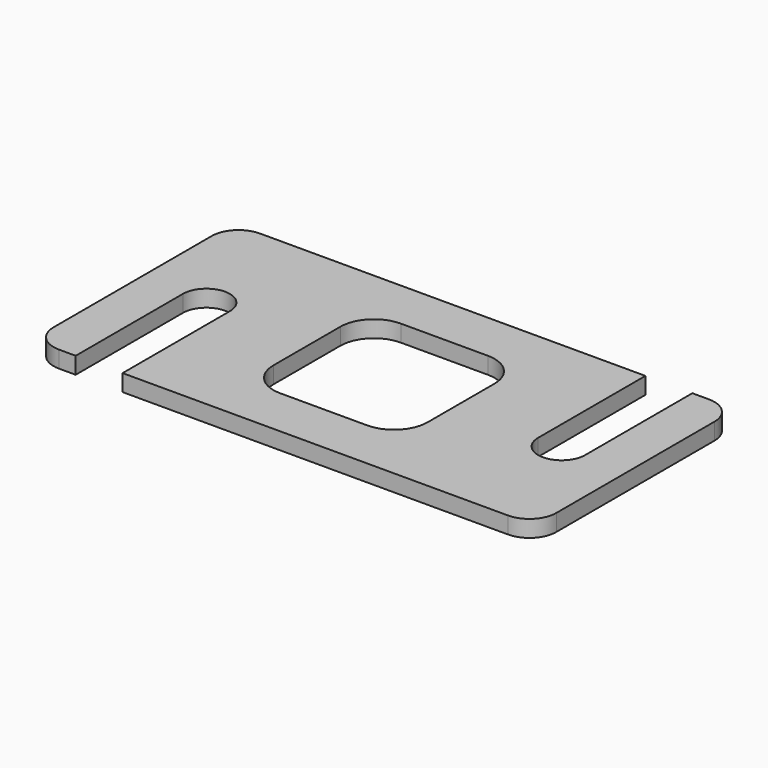
from build123d import *

# Parameters (mm, degrees)
F0_W     = 150
F0_H     = 75
F1_DEPTH = 5
F3_DEPTH = 5.001
F5_DEPTH = 5.001
F6_W     = 46
F6_H     = 45
F7_DEPTH = 5.001
F8_R     = 10
F9_R     = 10
F10_R    = 8
F11_R    = 8
F12_R    = 8
F13_R    = 8


with BuildPart() as f1:
    # F0 (on Top) → F1 (new body)
    with BuildSketch(Plane.XY):
        with Locations((75, 37.5)):
            Rectangle(F0_W, F0_H)
    extrude(amount=F1_DEPTH)

    # F2 (on Top) → F3 (cut, through all)
    with BuildSketch(Plane.XY):
        with BuildLine():
            Line((13, 40), (13, 0))
            Line((13, 0), (27, 0))
            Line((27, 0), (27, 40))
            ThreePointArc((27, 40), (20, 47), (13, 40))
        make_face()
    extrude(amount=F3_DEPTH, mode=Mode.SUBTRACT)

    # F4 (on face) → F5 (cut, through all)
    with BuildSketch(Plane(origin=(0, 0, 0), x_dir=(1, 0, 0), z_dir=(0, 0, -1))):
        with BuildLine():
            Line((123, -75), (137, -75))
            Line((137, -75), (137, -35))
            ThreePointArc((137, -35), (130, -28), (123, -35))
            Line((123, -35), (123, -75))
        make_face()
    extrude(amount=-F5_DEPTH, mode=Mode.SUBTRACT)

    # F6 (on face) → F7 (cut, through all)
    with BuildSketch(Plane(origin=(0, 0, 0), x_dir=(1, 0, 0), z_dir=(0, 0, -1))):
        with Locations((75, -37.5)):
            Rectangle(F6_W, F6_H)
    extrude(amount=-F7_DEPTH, mode=Mode.SUBTRACT)

    # F8
    f8_edges = [f1.edges().sort_by_distance(p)[0] for p in [
        (52, 15, 2.5),
        (98, 15, 2.5),
    ]]
    fillet(f8_edges, radius=F8_R)

    # F9
    f9_edges = [f1.edges().sort_by_distance(p)[0] for p in [
        (52, 60, 2.5),
        (98, 60, 2.5),
    ]]
    fillet(f9_edges, radius=F9_R)

    # F10
    f10_edges = [f1.edges().sort_by_distance(p)[0] for p in [
        (150, 0, 2.5),
    ]]
    fillet(f10_edges, radius=F10_R)

    # F11
    f11_edges = [f1.edges().sort_by_distance(p)[0] for p in [
        (0, 75, 2.5),
    ]]
    fillet(f11_edges, radius=F11_R)

    # F12
    f12_edges = [f1.edges().sort_by_distance(p)[0] for p in [
        (0, 0, 2.5),
    ]]
    fillet(f12_edges, radius=F12_R)

    # F13
    f13_edges = [f1.edges().sort_by_distance(p)[0] for p in [
        (150, 75, 2.5),
    ]]
    fillet(f13_edges, radius=F13_R)


solid = f1.part
